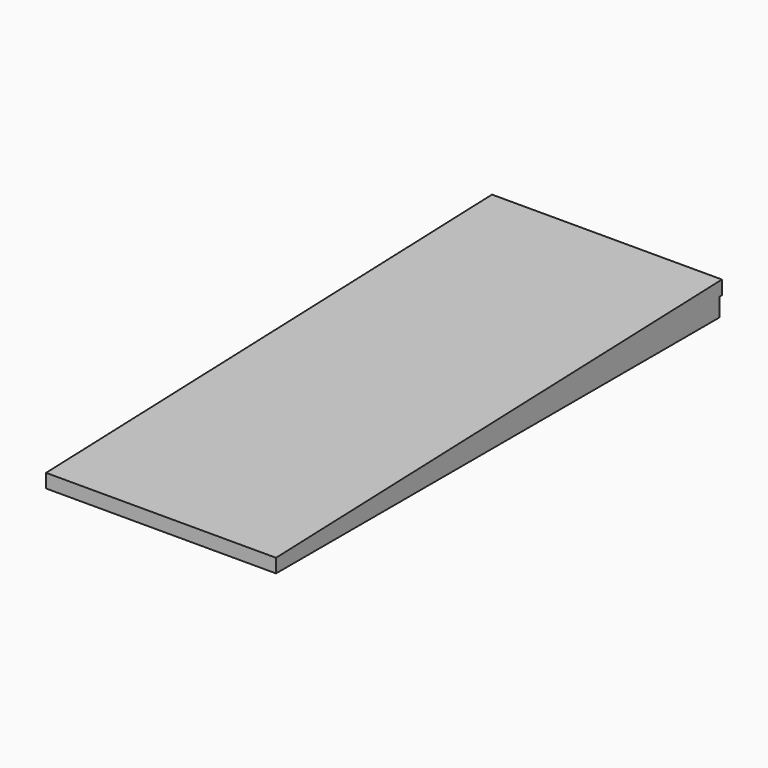
from build123d import *

# Parameters (mm, degrees)
PAD006_DEPTH = 1250
PAD007_DEPTH = 150


with BuildPart() as pad007:
    # Sketch015 → Pad006 (new body)
    with BuildSketch(Plane.YZ):
        Polygon((-2307.198486, 2500), (3752.801514, 2700), (3752.801514, 2850), (-2307.198486, 2650), align=None)
    extrude(amount=PAD006_DEPTH)

    # Sketch016 → Pad007 (new body)
    with BuildSketch(Plane.YZ.offset(1250)):
        Polygon((-2282.198486, 2500.8250825082), (3717.801514, 2698.8448844884), (3717.801514, 2499.8250825082), (-2282.198486, 2499.8250825082), align=None)
    extrude(amount=-PAD007_DEPTH)


with BuildPart() as part_mirroring:
    # Part__Mirroring: instance of Pad007
    add(pad007.part.mirror(Plane(origin=(0, 0, 0), x_dir=(0, -1, 0), z_dir=(1, 0, 0))))


with BuildPart() as roof:
    # Fusion base: copy of Pad007
    add(pad007.part)

    # Fusion: union Part__Mirroring
    add(part_mirroring.part)


solid = roof.part
